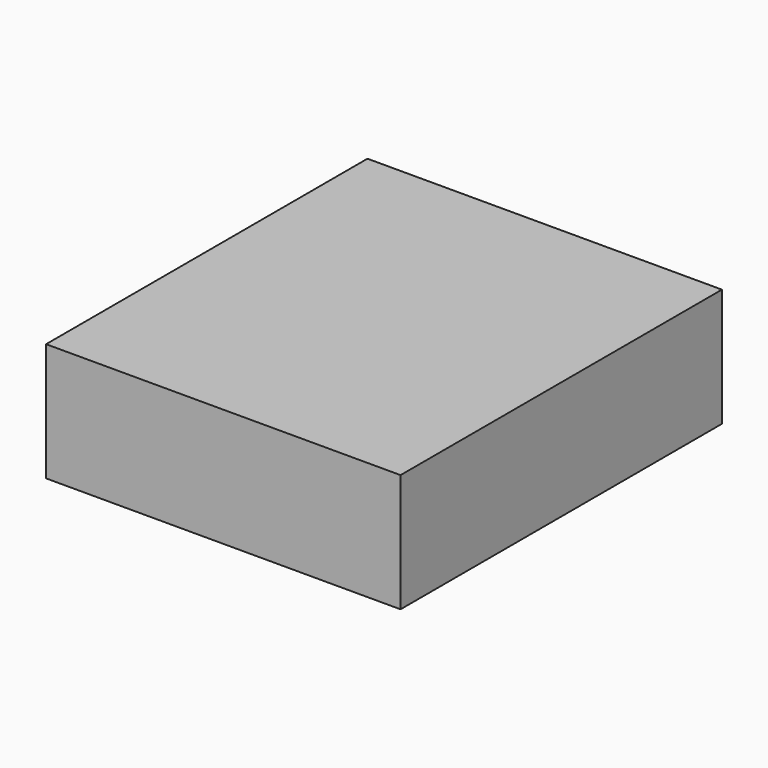
from build123d import *

# Parameters (mm, degrees)
BOX_W     = 15
BOX_H     = 17
BOX_DEPTH = 5


with BuildPart() as part:
    # Box → Box (new body)
    with BuildSketch(Plane.XY):
        with Locations((7.5, 8.5)):
            Rectangle(BOX_W, BOX_H)
    extrude(amount=BOX_DEPTH)


solid = part.part
